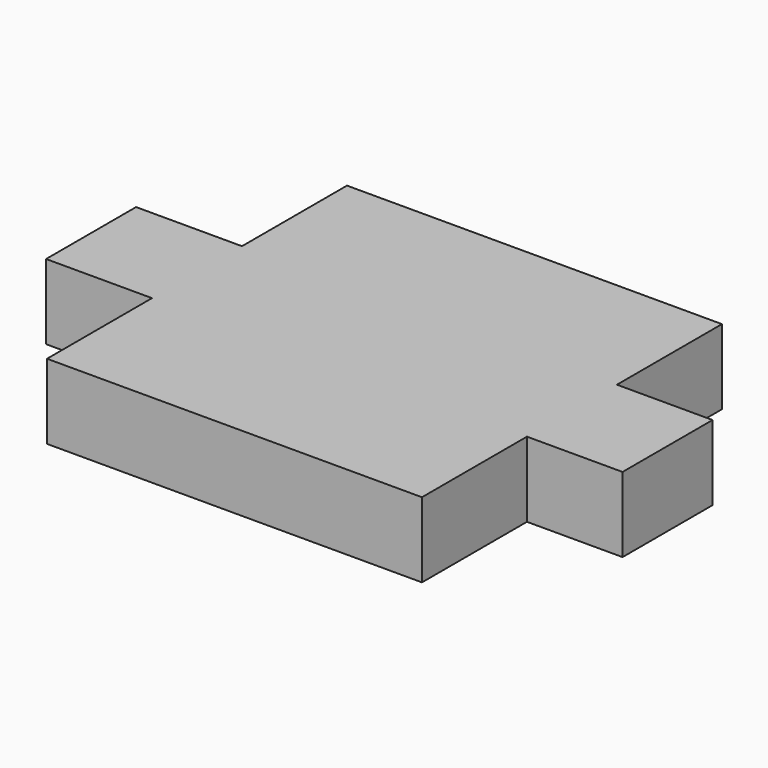
from build123d import *

# Parameters (mm, degrees)
F0_W     = 5.649933
F0_H     = 6
F0_W_2   = 5.099247
F1_DEPTH = 4


with BuildPart() as f1:
    # F0 (on Top) → F1 (new body)
    with BuildSketch(Plane.XY):
        Polygon((10, 10), (-10, 10), (-10, 3), (-10, -3), (-10, -10), (10, -10), (10, -3), (10, 3), align=None)
        with Locations((-12.824966, 0)):
            Rectangle(F0_W, F0_H)
        with Locations((12.549623, 0)):
            Rectangle(F0_W_2, F0_H)
    extrude(amount=F1_DEPTH)


solid = f1.part
